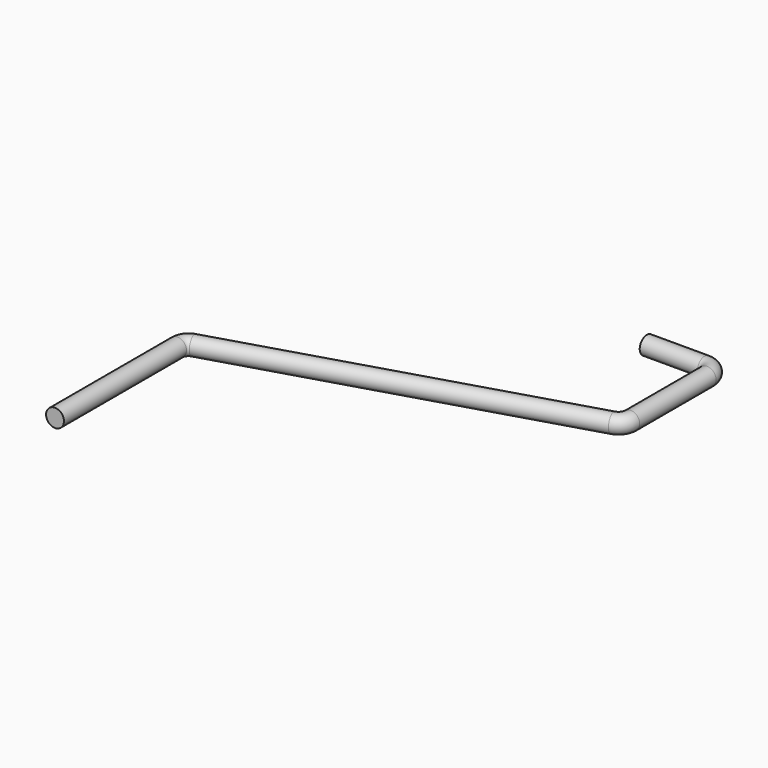
from build123d import *

# Parameters (mm, degrees)
F2_R = 3.868


with BuildPart() as f3:
    # F3: sweep along a path in F0
    with BuildLine(Plane.XY) as f3_path:
        Line((0, 0), (25, 0))
        ThreePointArc((25, 0), (28.5355339059, -1.4644660941), (30, -5))
        Line((30, -5), (30, -46.2890183416))
        ThreePointArc((30, -46.2890183416), (29.0149889262, -49.2689283944), (26.448054431, -51.0747406868))
        Line((26.448054431, -51.0747406868), (-119.5911694754, -95.2630011068))
        ThreePointArc((-119.5911694754, -95.2630011068), (-122.1581039705, -97.0688133992), (-123.1431150443, -100.0487234519))
        Line((-123.1431150443, -100.0487234519), (-123.1431150443, -166.3377417936))
    # F2 (on line) → F3 (sweep)
    with BuildSketch(Plane.XZ.offset(166.3377417936)):
        with Locations((-122.8476336243, 0)):
            Circle(F2_R)
    sweep(path=f3_path.line)


solid = f3.part
